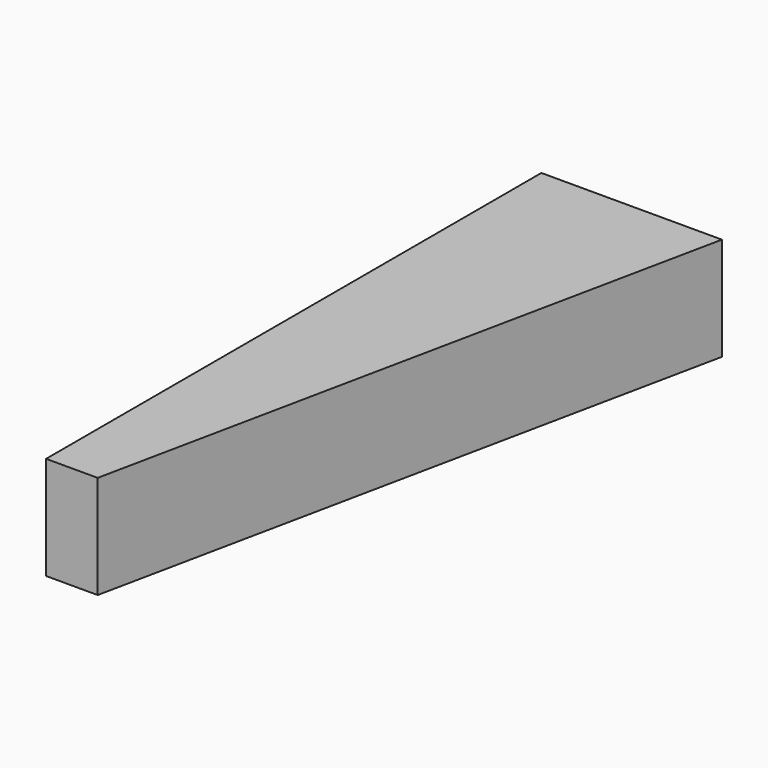
from build123d import *

# Parameters (mm, degrees)
F1_DEPTH = 20
F2_T     = -0.7
F3_W     = 121.1464474762
F3_H     = 0.7
F4_DEPTH = 2


with BuildPart() as f1:
    # F0 (on Top) → F1 (new body)
    with BuildSketch(Plane.XY):
        Polygon((22.5, 80), (-12.5, 80), (-12.5, -40), (-2.5, -40), align=None)
    extrude(amount=F1_DEPTH)

    # F2
    f2_openings = [f1.faces().sort_by_distance(p)[0] for p in [
        (-12.5, 20, 10),
    ]]
    offset(amount=F2_T, openings=f2_openings)

    # F3 (on face) → F4 (join)
    with BuildSketch(Plane(origin=(4.9053959025, -1.0219574797, 0), x_dir=(-0.2039542541, -0.9789804197, 0), z_dir=(-0.9789804197, 0.2039542541, 0))):
        with Locations((-21.4733176025, 16.45)):
            Rectangle(F3_W, F3_H)
    extrude(amount=F4_DEPTH)


solid = f1.part
